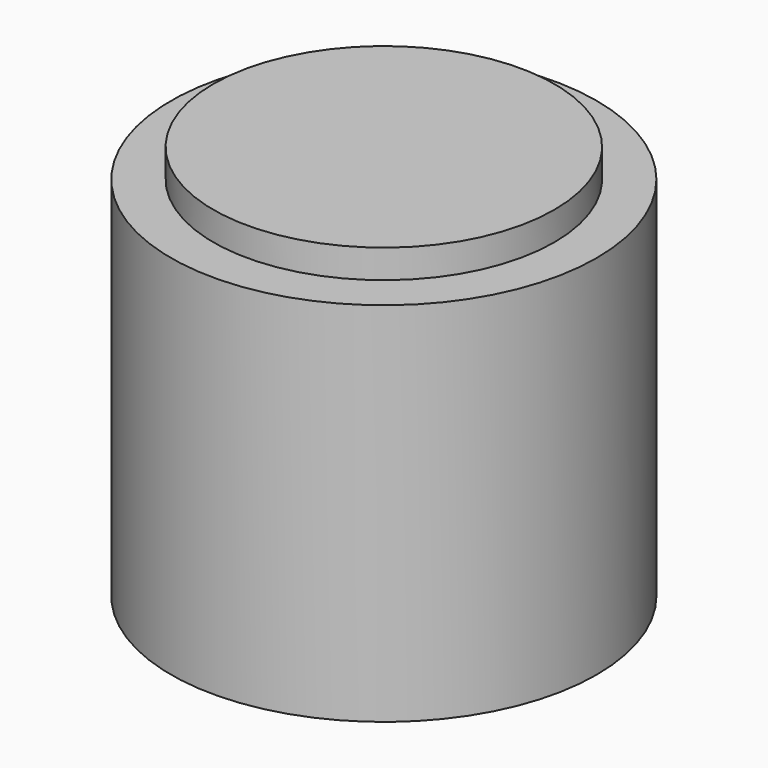
from build123d import *

# Parameters (mm, degrees)
CYLINDER001_R     = 75
CYLINDER001_DEPTH = 12.6
TUBE_R            = 93.65
TUBE_R_2          = 30.88
TUBE_DEPTH        = 161.4


with BuildPart() as connector:
    # Cylinder001 → Cylinder001 (new body)
    with BuildSketch(Plane.XY.offset(161.4)):
        Circle(CYLINDER001_R)
    extrude(amount=CYLINDER001_DEPTH)


with BuildPart() as sensor:
    # Tube → Tube (new body)
    with BuildSketch(Plane.XY):
        Circle(TUBE_R)
        Circle(TUBE_R_2, mode=Mode.SUBTRACT)
    extrude(amount=TUBE_DEPTH)


solid = Compound([connector.part, sensor.part])
